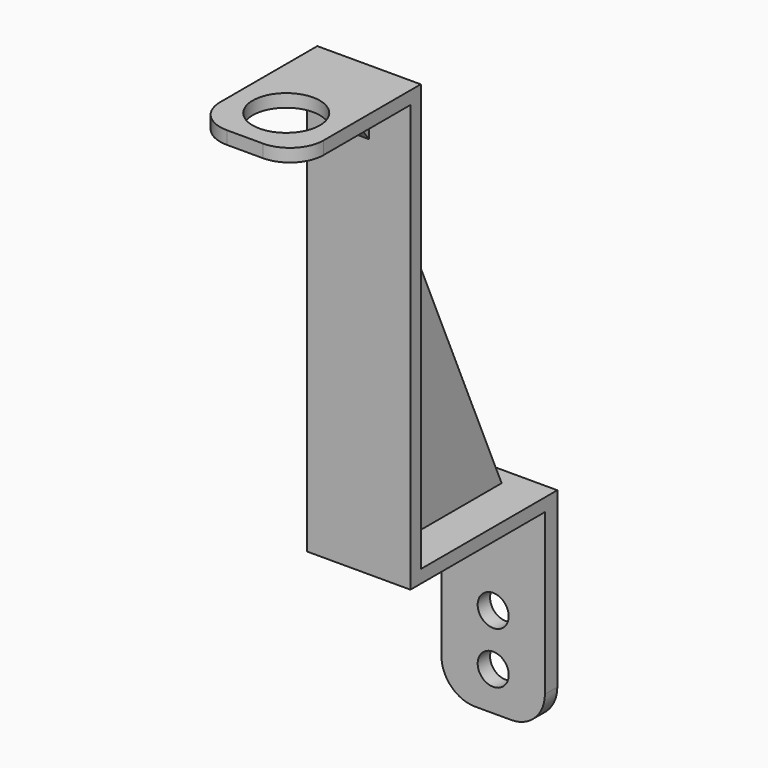
from build123d import *

# Parameters (mm, degrees)
F0_W      = 20
F0_H      = 40
F0_R      = 3
F1_DEPTH  = 3
F2_W      = 20
F2_H      = 2.5
F3_DEPTH  = 32.5
F4_W      = 20
F4_H      = 2.5
F5_DEPTH  = 80
F6_W      = 20
F6_H      = 30
F6_R      = 6.5
F7_DEPTH  = 2.5
F9_DEPTH  = 2
F11_DEPTH = 2
F12_R     = 6.5


with BuildPart() as f1:
    # F0 (on Front) → F1 (new body)
    with BuildSketch(Plane.XZ):
        Rectangle(F0_W, F0_H)
        with Locations((0, -12.5)):
            Circle(F0_R, mode=Mode.SUBTRACT)
        with Locations((0, -2.5)):
            Circle(F0_R, mode=Mode.SUBTRACT)
    extrude(amount=F1_DEPTH)

    # F2 (on face) → F3 (join)
    with BuildSketch(Plane.XZ.offset(3)):
        with Locations((0, 18.75)):
            Rectangle(F2_W, F2_H)
    extrude(amount=F3_DEPTH)

    # F4 (on face) → F5 (join)
    with BuildSketch(Plane.XY.offset(20)):
        with Locations((0, -34.25)):
            Rectangle(F4_W, F4_H)
    extrude(amount=F5_DEPTH)

    # F6 (on face) → F7 (join)
    with BuildSketch(Plane.XY.offset(100)):
        with Locations((0, -48)):
            Rectangle(F6_W, F6_H)
        with Locations((0, -53)):
            Circle(F6_R, mode=Mode.SUBTRACT)
    extrude(amount=F7_DEPTH)

    # F8 (on Right) → F9 (join)
    with BuildSketch(Plane.YZ):
        Polygon((-34.184523, 89.776114), (-34.184523, 101.863012), (-43.082852, 101.863012), align=None)
    extrude(amount=F9_DEPTH)

    # F10 (on Right) → F11 (join)
    with BuildSketch(Plane.YZ):
        Polygon((-2.943157, 18.818472), (-34.36638, 90.463422), (-34.156892, 18.818472), align=None)
    extrude(amount=F11_DEPTH)

    # F12
    f12_edges = [f1.edges().sort_by_distance(p)[0] for p in [
        (-10, -63, 101.25),
        (10, -63, 101.25),
        (-10, -1.5, -20),
        (10, -1.5, -20),
    ]]
    fillet(f12_edges, radius=F12_R)


solid = f1.part
